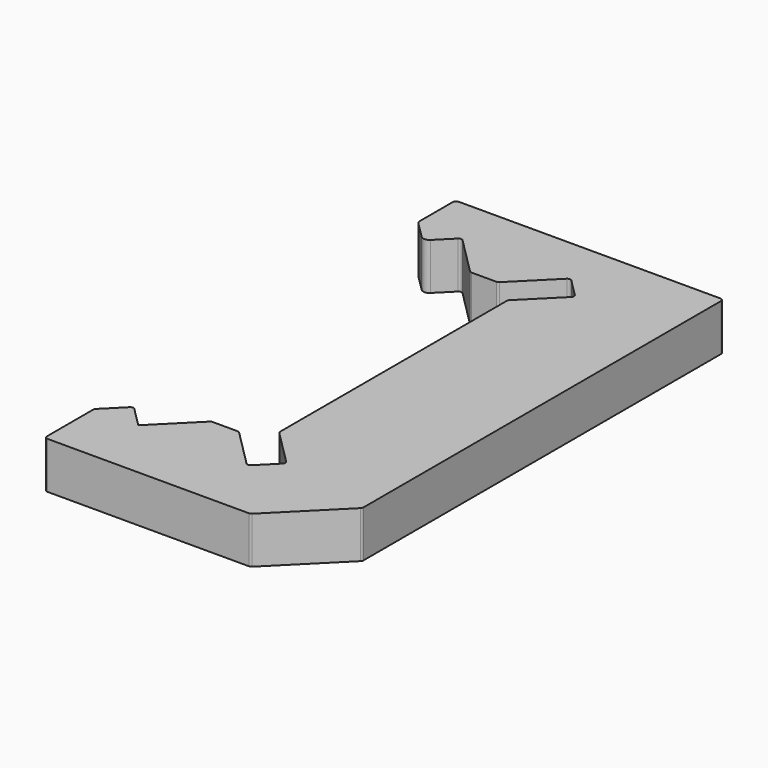
from build123d import *

# Parameters (mm, degrees)
F1_DEPTH = 15
F2_R     = 2
F3_R     = 1
F4_R     = 1
F5_R     = 1


with BuildPart() as f1:
    # F0 (on Top) → F1 (new body)
    with BuildSketch(Plane.XY):
        Polygon((45.5563491861, 73.9710003696), (-40.6126983722, 73.9710003696), (-40.6126983722, 58.9710003696), (-33.5416305603, 51.8999325577), (-26.4705627485, 58.9710003696), (-13.4215728753, 45.9220104963), (-4.563708499, 45.9220104963), (8.4852813742, 58.9710003696), (15.5563491861, 51.8999325577), (3.5073593129, 39.8509426845), (3.5073593129, -52.0069216918), (15.5563491861, -64.055911565), (8.4852813742, -71.1269793769), (-4.563708499, -58.0779895037), (-13.4215728753, -58.0779895037), (-26.4705627485, -71.1269793769), (-33.5416305603, -64.055911565), (-40.6126983722, -71.1269793769), (-40.6126983722, -91.1269793769), (25.5563491861, -91.1269793769), (45.5563491861, -71.1269793769), align=None)
    extrude(amount=F1_DEPTH)

    # F2
    f2_edges = [f1.edges().sort_by_distance(p)[0] for p in [
        (-33.541631, 51.899933, 7.5),
        (-40.612698, 58.971, 7.5),
    ]]
    fillet(f2_edges, radius=F2_R)

    # F3
    f3_edges = [f1.edges().sort_by_distance(p)[0] for p in [
        (-26.470563, 58.971, 7.5),
        (-13.421573, 45.92201, 7.5),
        (-4.563708, 45.92201, 7.5),
        (8.485281, 58.971, 7.5),
        (-40.612698, 59.799427, 7.5),
    ]]
    fillet(f3_edges, radius=F3_R)

    # F4
    f4_edges = [f1.edges().sort_by_distance(p)[0] for p in [
        (-40.612698, -71.126979, 7.5),
        (-33.541631, -64.055912, 7.5),
        (-13.421573, -58.07799, 7.5),
        (-4.563708, -58.07799, 7.5),
        (15.556349, -64.055912, 7.5),
        (3.507359, -52.006922, 7.5),
        (3.507359, 39.850943, 7.5),
        (15.556349, 51.899933, 7.5),
    ]]
    fillet(f4_edges, radius=F4_R)

    # F5
    f5_edges = [f1.edges().sort_by_distance(p)[0] for p in [
        (-40.612698, 73.971, 7.5),
        (8.485281, -71.126979, 7.5),
        (-40.612698, -91.126979, 7.5),
        (45.556349, 73.971, 7.5),
        (45.556349, -71.126979, 7.5),
        (25.556349, -91.126979, 7.5),
    ]]
    fillet(f5_edges, radius=F5_R)


solid = f1.part
